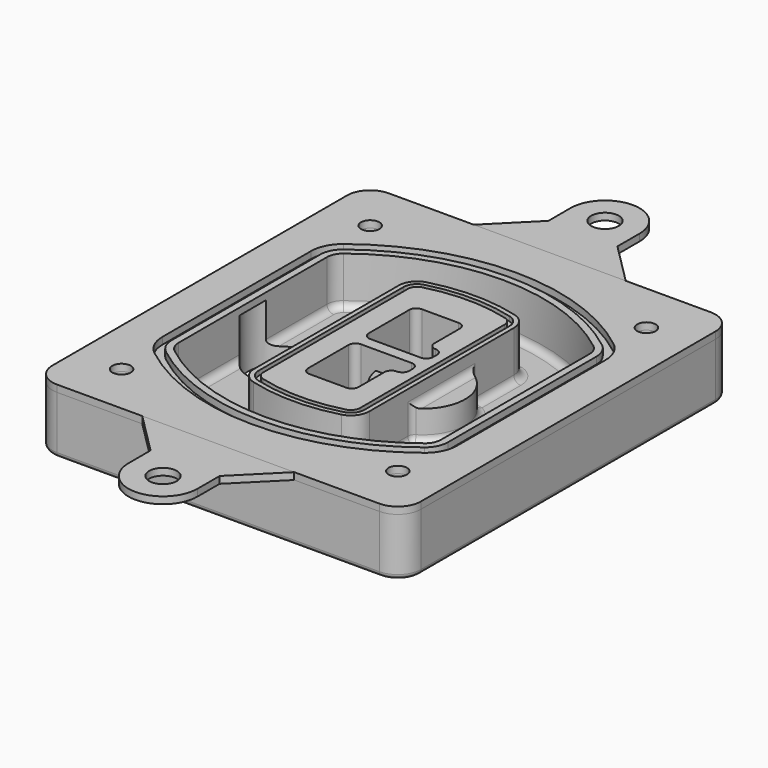
from build123d import *

# Parameters (mm, degrees)
F0_R      = 4
F1_DEPTH  = 25
F2_DEPTH  = 3
F3_DEPTH  = 18
F5_DEPTH  = 21
F6_DEPTH  = 2
F8_DEPTH  = 20
F9_DEPTH  = 16
F10_DEPTH = 25
F7_R      = 6
F7_R_2    = 4
F11_DEPTH = 6
F13_DEPTH = 9
F14_R     = 3
F15_R     = 2
F16_R     = 6
F17_DEPTH = 3
F18_DEPTH = 3


with BuildPart() as f1:
    # F0 (on Top) → F1 (new body)
    with BuildSketch(Plane.XY):
        with BuildLine():
            ThreePointArc((-80, -80), (-77.0710678119, -87.0710678119), (-70, -90))
            Line((-70, -90), (70, -90))
            ThreePointArc((70, -90), (77.0710678119, -87.0710678119), (80, -80))
            Line((80, -80), (80, 80))
            ThreePointArc((80, 80), (77.0710678119, 87.0710678119), (70, 90))
            Line((70, 90), (-70, 90))
            ThreePointArc((-70, 90), (-77.0710678119, 87.0710678119), (-80, 80))
            Line((-80, 80), (-80, -80))
        make_face()
        with Locations((-60, -67.5)):
            Circle(F0_R, mode=Mode.SUBTRACT)
        with Locations((60, -67.5)):
            Circle(F0_R, mode=Mode.SUBTRACT)
        with Locations((-60, 67.5)):
            Circle(F0_R, mode=Mode.SUBTRACT)
        with BuildLine():
            ThreePointArc((-64, 40.2934422872), (-62.5820384798, 46.4328484224), (-58.6153846154, 51.3286200352))
            ThreePointArc((-58.6153846154, 51.3286200352), (0, 71.5), (58.6153846154, 51.3286200352))
            ThreePointArc((58.6153846154, 51.3286200352), (62.5820384798, 46.4328484224), (64, 40.2934422872))
            Line((64, 40.2934422872), (64, -40.2934422872))
            ThreePointArc((64, -40.2934422872), (62.5820384798, -46.4328484224), (58.6153846154, -51.3286200352))
            ThreePointArc((58.6153846154, -51.3286200352), (0, -71.5), (-58.6153846154, -51.3286200352))
            ThreePointArc((-58.6153846154, -51.3286200352), (-62.5820384798, -46.4328484224), (-64, -40.2934422872))
            Line((-64, -40.2934422872), (-64, 40.2934422872))
        make_face(mode=Mode.SUBTRACT)
        with Locations((60, 67.5)):
            Circle(F0_R, mode=Mode.SUBTRACT)
        with BuildLine():
            ThreePointArc((58.6153846154, 51.3286200352), (0, 71.5), (-58.6153846154, 51.3286200352))
            ThreePointArc((-58.6153846154, 51.3286200352), (-62.5820384798, 46.4328484224), (-64, 40.2934422872))
            Line((-64, 40.2934422872), (-64, -40.2934422872))
            ThreePointArc((-64, -40.2934422872), (-62.5820384798, -46.4328484224), (-58.6153846154, -51.3286200352))
            ThreePointArc((-58.6153846154, -51.3286200352), (0, -71.5), (58.6153846154, -51.3286200352))
            ThreePointArc((58.6153846154, -51.3286200352), (62.5820384798, -46.4328484224), (64, -40.2934422872))
            Line((64, -40.2934422872), (64, 40.2934422872))
            ThreePointArc((64, 40.2934422872), (62.5820384798, 46.4328484224), (58.6153846154, 51.3286200352))
        make_face()
        with BuildLine():
            Line((-60, -40.2934422872), (-60, 40.2934422872))
            ThreePointArc((-60, 40.2934422872), (-58.9871703427, 44.6787323838), (-56.1538461538, 48.1757121072))
            ThreePointArc((-56.1538461538, 48.1757121072), (0, 67.5), (56.1538461538, 48.1757121072))
            ThreePointArc((56.1538461538, 48.1757121072), (58.9871703427, 44.6787323838), (60, 40.2934422872))
            Line((60, 40.2934422872), (60, -40.2934422872))
            ThreePointArc((60, -40.2934422872), (58.9871703427, -44.6787323838), (56.1538461538, -48.1757121072))
            ThreePointArc((56.1538461538, -48.1757121072), (0, -67.5), (-56.1538461538, -48.1757121072))
            ThreePointArc((-56.1538461538, -48.1757121072), (-58.9871703427, -44.6787323838), (-60, -40.2934422872))
        make_face(mode=Mode.SUBTRACT)
        with BuildLine():
            ThreePointArc((-56.1538461538, 48.1757121072), (-58.9871703427, 44.6787323838), (-60, 40.2934422872))
            Line((-60, 40.2934422872), (-60, -40.2934422872))
            ThreePointArc((-60, -40.2934422872), (-58.9871703427, -44.6787323838), (-56.1538461538, -48.1757121072))
            ThreePointArc((-56.1538461538, -48.1757121072), (0, -67.5), (56.1538461538, -48.1757121072))
            ThreePointArc((56.1538461538, -48.1757121072), (58.9871703427, -44.6787323838), (60, -40.2934422872))
            Line((60, -40.2934422872), (60, 40.2934422872))
            ThreePointArc((60, 40.2934422872), (58.9871703427, 44.6787323838), (56.1538461538, 48.1757121072))
            ThreePointArc((56.1538461538, 48.1757121072), (0, 67.5), (-56.1538461538, 48.1757121072))
        make_face()
        with BuildLine():
            ThreePointArc((54.3076923077, 45.8110311612), (56.2910192399, 43.3631453548), (57, 40.2934422872))
            Line((57, 40.2934422872), (57, -40.2934422872))
            ThreePointArc((57, -40.2934422872), (56.2910192399, -43.3631453548), (54.3076923077, -45.8110311612))
            ThreePointArc((54.3076923077, -45.8110311612), (0, -64.5), (-54.3076923077, -45.8110311612))
            ThreePointArc((-54.3076923077, -45.8110311612), (-56.2910192399, -43.3631453548), (-57, -40.2934422872))
            Line((-57, -40.2934422872), (-57, 40.2934422872))
            ThreePointArc((-57, 40.2934422872), (-56.2910192399, 43.3631453548), (-54.3076923077, 45.8110311612))
            ThreePointArc((-54.3076923077, 45.8110311612), (0, 64.5), (54.3076923077, 45.8110311612))
        make_face(mode=Mode.SUBTRACT)
        with BuildLine():
            Line((57, -40.2934422872), (57, 40.2934422872))
            ThreePointArc((57, 40.2934422872), (56.2910192399, 43.3631453548), (54.3076923077, 45.8110311612))
            ThreePointArc((54.3076923077, 45.8110311612), (0, 64.5), (-54.3076923077, 45.8110311612))
            ThreePointArc((-54.3076923077, 45.8110311612), (-56.2910192399, 43.3631453548), (-57, 40.2934422872))
            Line((-57, 40.2934422872), (-57, -40.2934422872))
            ThreePointArc((-57, -40.2934422872), (-56.2910192399, -43.3631453548), (-54.3076923077, -45.8110311612))
            ThreePointArc((-54.3076923077, -45.8110311612), (0, -64.5), (54.3076923077, -45.8110311612))
            ThreePointArc((54.3076923077, -45.8110311612), (56.2910192399, -43.3631453548), (57, -40.2934422872))
        make_face()
    extrude(amount=-F1_DEPTH)

    # F0 (on Top) → F2 (join)
    with BuildSketch(Plane.XY):
        with BuildLine():
            ThreePointArc((-56.1538461538, 48.1757121072), (-58.9871703427, 44.6787323838), (-60, 40.2934422872))
            Line((-60, 40.2934422872), (-60, -40.2934422872))
            ThreePointArc((-60, -40.2934422872), (-58.9871703427, -44.6787323838), (-56.1538461538, -48.1757121072))
            ThreePointArc((-56.1538461538, -48.1757121072), (0, -67.5), (56.1538461538, -48.1757121072))
            ThreePointArc((56.1538461538, -48.1757121072), (58.9871703427, -44.6787323838), (60, -40.2934422872))
            Line((60, -40.2934422872), (60, 40.2934422872))
            ThreePointArc((60, 40.2934422872), (58.9871703427, 44.6787323838), (56.1538461538, 48.1757121072))
            ThreePointArc((56.1538461538, 48.1757121072), (0, 67.5), (-56.1538461538, 48.1757121072))
        make_face()
        with BuildLine():
            ThreePointArc((54.3076923077, 45.8110311612), (56.2910192399, 43.3631453548), (57, 40.2934422872))
            Line((57, 40.2934422872), (57, -40.2934422872))
            ThreePointArc((57, -40.2934422872), (56.2910192399, -43.3631453548), (54.3076923077, -45.8110311612))
            ThreePointArc((54.3076923077, -45.8110311612), (0, -64.5), (-54.3076923077, -45.8110311612))
            ThreePointArc((-54.3076923077, -45.8110311612), (-56.2910192399, -43.3631453548), (-57, -40.2934422872))
            Line((-57, -40.2934422872), (-57, 40.2934422872))
            ThreePointArc((-57, 40.2934422872), (-56.2910192399, 43.3631453548), (-54.3076923077, 45.8110311612))
            ThreePointArc((-54.3076923077, 45.8110311612), (0, 64.5), (54.3076923077, 45.8110311612))
        make_face(mode=Mode.SUBTRACT)
    extrude(amount=F2_DEPTH)

    # F0 (on Top) → F3 (cut)
    with BuildSketch(Plane.XY):
        with BuildLine():
            Line((57, -40.2934422872), (57, 40.2934422872))
            ThreePointArc((57, 40.2934422872), (56.2910192399, 43.3631453548), (54.3076923077, 45.8110311612))
            ThreePointArc((54.3076923077, 45.8110311612), (0, 64.5), (-54.3076923077, 45.8110311612))
            ThreePointArc((-54.3076923077, 45.8110311612), (-56.2910192399, 43.3631453548), (-57, 40.2934422872))
            Line((-57, 40.2934422872), (-57, -40.2934422872))
            ThreePointArc((-57, -40.2934422872), (-56.2910192399, -43.3631453548), (-54.3076923077, -45.8110311612))
            ThreePointArc((-54.3076923077, -45.8110311612), (0, -64.5), (54.3076923077, -45.8110311612))
            ThreePointArc((54.3076923077, -45.8110311612), (56.2910192399, -43.3631453548), (57, -40.2934422872))
        make_face()
    extrude(amount=-F3_DEPTH, mode=Mode.SUBTRACT)

    # F4 (on face) → F5 (join, through all)
    with BuildSketch(Plane.XY.offset(3)):
        with BuildLine():
            ThreePointArc((-25, -39.2465276821), (-23.3511545998, -44.1109737193), (-19.0842911877, -46.9702398883))
            ThreePointArc((-19.0842911877, -46.9702398883), (0, -49.5), (19.0842911877, -46.9702398883))
            ThreePointArc((19.0842911877, -46.9702398883), (23.3511545998, -44.1109737193), (25, -39.2465276821))
            Line((25, -39.2465276821), (25, 39.2465276821))
            ThreePointArc((25, 39.2465276821), (23.3511545998, 44.1109737193), (19.0842911877, 46.9702398883))
            ThreePointArc((19.0842911877, 46.9702398883), (0, 49.5), (-19.0842911877, 46.9702398883))
            ThreePointArc((-19.0842911877, 46.9702398883), (-23.3511545998, 44.1109737193), (-25, 39.2465276821))
            Line((-25, 39.2465276821), (-25, -39.2465276821))
        make_face()
        with BuildLine():
            ThreePointArc((18.5632183908, 45.0393118368), (21.7633659499, 42.89486221), (23, 39.2465276821))
            Line((23, 39.2465276821), (23, -39.2465276821))
            ThreePointArc((23, -39.2465276821), (21.7633659499, -42.89486221), (18.5632183908, -45.0393118368))
            ThreePointArc((18.5632183908, -45.0393118368), (0, -47.5), (-18.5632183908, -45.0393118368))
            ThreePointArc((-18.5632183908, -45.0393118368), (-21.7633659499, -42.89486221), (-23, -39.2465276821))
            Line((-23, -39.2465276821), (-23, 39.2465276821))
            ThreePointArc((-23, 39.2465276821), (-21.7633659499, 42.89486221), (-18.5632183908, 45.0393118368))
            ThreePointArc((-18.5632183908, 45.0393118368), (0, 47.5), (18.5632183908, 45.0393118368))
        make_face(mode=Mode.SUBTRACT)
        with BuildLine():
            Line((23, -39.2465276821), (23, 39.2465276821))
            ThreePointArc((23, 39.2465276821), (21.7633659499, 42.89486221), (18.5632183908, 45.0393118368))
            ThreePointArc((18.5632183908, 45.0393118368), (0, 47.5), (-18.5632183908, 45.0393118368))
            ThreePointArc((-18.5632183908, 45.0393118368), (-21.7633659499, 42.89486221), (-23, 39.2465276821))
            Line((-23, 39.2465276821), (-23, -39.2465276821))
            ThreePointArc((-23, -39.2465276821), (-21.7633659499, -42.89486221), (-18.5632183908, -45.0393118368))
            ThreePointArc((-18.5632183908, -45.0393118368), (0, -47.5), (18.5632183908, -45.0393118368))
            ThreePointArc((18.5632183908, -45.0393118368), (21.7633659499, -42.89486221), (23, -39.2465276821))
        make_face()
        with BuildLine():
            ThreePointArc((18.0421455939, 43.1083837852), (20.1755772999, 41.6787507007), (21, 39.2465276821))
            Line((21, 39.2465276821), (21, -39.2465276821))
            ThreePointArc((21, -39.2465276821), (20.1755772999, -41.6787507007), (18.0421455939, -43.1083837852))
            ThreePointArc((18.0421455939, -43.1083837852), (0, -45.5), (-18.0421455939, -43.1083837852))
            ThreePointArc((-18.0421455939, -43.1083837852), (-20.1755772999, -41.6787507007), (-21, -39.2465276821))
            Line((-21, -39.2465276821), (-21, 39.2465276821))
            ThreePointArc((-21, 39.2465276821), (-20.1755772999, 41.6787507007), (-18.0421455939, 43.1083837852))
            ThreePointArc((-18.0421455939, 43.1083837852), (0, 45.5), (18.0421455939, 43.1083837852))
        make_face(mode=Mode.SUBTRACT)
        with BuildLine():
            Line((21, -39.2465276821), (21, 39.2465276821))
            ThreePointArc((21, 39.2465276821), (20.1755772999, 41.6787507007), (18.0421455939, 43.1083837852))
            ThreePointArc((18.0421455939, 43.1083837852), (0, 45.5), (-18.0421455939, 43.1083837852))
            ThreePointArc((-18.0421455939, 43.1083837852), (-20.1755772999, 41.6787507007), (-21, 39.2465276821))
            Line((-21, 39.2465276821), (-21, -39.2465276821))
            ThreePointArc((-21, -39.2465276821), (-20.1755772999, -41.6787507007), (-18.0421455939, -43.1083837852))
            ThreePointArc((-18.0421455939, -43.1083837852), (0, -45.5), (18.0421455939, -43.1083837852))
            ThreePointArc((18.0421455939, -43.1083837852), (20.1755772999, -41.6787507007), (21, -39.2465276821))
        make_face()
        with BuildLine():
            Line((-8, -2.5), (14, -2.5))
            ThreePointArc((14, -2.5), (16.1213203436, -3.3786796564), (17, -5.5))
            Line((17, -5.5), (17, -7.5))
            ThreePointArc((17, -7.5), (16.1213203436, -9.6213203436), (14, -10.5))
            ThreePointArc((14, -10.5), (11.8786796564, -11.3786796564), (11, -13.5))
            Line((11, -13.5), (11, -27.5))
            ThreePointArc((11, -27.5), (10.1213203436, -29.6213203436), (8, -30.5))
            Line((8, -30.5), (-8, -30.5))
            ThreePointArc((-8, -30.5), (-10.1213203436, -29.6213203436), (-11, -27.5))
            Line((-11, -27.5), (-11, -5.5))
            ThreePointArc((-11, -5.5), (-10.1213203436, -3.3786796564), (-8, -2.5))
        make_face(mode=Mode.SUBTRACT)
        with BuildLine():
            ThreePointArc((-8, 2.5), (-10.1213203436, 3.3786796564), (-11, 5.5))
            Line((-11, 5.5), (-11, 27.5))
            ThreePointArc((-11, 27.5), (-10.1213203436, 29.6213203436), (-8, 30.5))
            Line((-8, 30.5), (8, 30.5))
            ThreePointArc((8, 30.5), (10.1213203436, 29.6213203436), (11, 27.5))
            Line((11, 27.5), (11, 13.5))
            ThreePointArc((11, 13.5), (11.8786796564, 11.3786796564), (14, 10.5))
            ThreePointArc((14, 10.5), (16.1213203436, 9.6213203436), (17, 7.5))
            Line((17, 7.5), (17, 5.5))
            ThreePointArc((17, 5.5), (16.1213203436, 3.3786796564), (14, 2.5))
            Line((14, 2.5), (-8, 2.5))
        make_face(mode=Mode.SUBTRACT)
    extrude(amount=-F5_DEPTH)

    # F4 (on face) → F6 (cut)
    with BuildSketch(Plane.XY.offset(3)):
        with BuildLine():
            Line((23, -39.2465276821), (23, 39.2465276821))
            ThreePointArc((23, 39.2465276821), (21.7633659499, 42.89486221), (18.5632183908, 45.0393118368))
            ThreePointArc((18.5632183908, 45.0393118368), (0, 47.5), (-18.5632183908, 45.0393118368))
            ThreePointArc((-18.5632183908, 45.0393118368), (-21.7633659499, 42.89486221), (-23, 39.2465276821))
            Line((-23, 39.2465276821), (-23, -39.2465276821))
            ThreePointArc((-23, -39.2465276821), (-21.7633659499, -42.89486221), (-18.5632183908, -45.0393118368))
            ThreePointArc((-18.5632183908, -45.0393118368), (0, -47.5), (18.5632183908, -45.0393118368))
            ThreePointArc((18.5632183908, -45.0393118368), (21.7633659499, -42.89486221), (23, -39.2465276821))
        make_face()
        with BuildLine():
            ThreePointArc((18.0421455939, 43.1083837852), (20.1755772999, 41.6787507007), (21, 39.2465276821))
            Line((21, 39.2465276821), (21, -39.2465276821))
            ThreePointArc((21, -39.2465276821), (20.1755772999, -41.6787507007), (18.0421455939, -43.1083837852))
            ThreePointArc((18.0421455939, -43.1083837852), (0, -45.5), (-18.0421455939, -43.1083837852))
            ThreePointArc((-18.0421455939, -43.1083837852), (-20.1755772999, -41.6787507007), (-21, -39.2465276821))
            Line((-21, -39.2465276821), (-21, 39.2465276821))
            ThreePointArc((-21, 39.2465276821), (-20.1755772999, 41.6787507007), (-18.0421455939, 43.1083837852))
            ThreePointArc((-18.0421455939, 43.1083837852), (0, 45.5), (18.0421455939, 43.1083837852))
        make_face(mode=Mode.SUBTRACT)
    extrude(amount=-F6_DEPTH, mode=Mode.SUBTRACT)

    # F7 (on face) → F8 (join)
    with BuildSketch(Plane(origin=(0, 0, -25), x_dir=(1, 0, 0), z_dir=(0, 0, -1))):
        with BuildLine():
            ThreePointArc((3.28842436, 0), (16.7567035675, 13.4682792075), (30.224982775, 0))
            Line((30.224982775, 0), (35.224982775, 0))
            ThreePointArc((35.224982775, 0), (16.7567035675, 18.4682792075), (-1.71157564, 0))
            Line((-1.71157564, 0), (3.28842436, 0))
        make_face()
        with BuildLine():
            Line((3.28842436, 0), (30.224982775, 0))
            ThreePointArc((30.224982775, 0), (16.7567035675, 13.4682792075), (3.28842436, 0))
        make_face()
        with BuildLine():
            ThreePointArc((3.28842436, 0), (16.7567035675, -13.4682792075), (30.224982775, 0))
            Line((30.224982775, 0), (3.28842436, 0))
        make_face()
        with BuildLine():
            Line((35.224982775, 0), (30.224982775, 0))
            ThreePointArc((30.224982775, 0), (16.7567035675, -13.4682792075), (3.28842436, 0))
            Line((3.28842436, 0), (-1.71157564, 0))
            ThreePointArc((-1.71157564, 0), (16.7567035675, -18.4682792075), (35.224982775, 0))
        make_face()
    extrude(amount=-F8_DEPTH)

    # F7 (on face) → F9 (cut)
    with BuildSketch(Plane(origin=(0, 0, -25), x_dir=(1, 0, 0), z_dir=(0, 0, -1))):
        with BuildLine():
            Line((3.28842436, 0), (30.224982775, 0))
            ThreePointArc((30.224982775, 0), (16.7567035675, 13.4682792075), (3.28842436, 0))
        make_face()
        with BuildLine():
            ThreePointArc((3.28842436, 0), (16.7567035675, -13.4682792075), (30.224982775, 0))
            Line((30.224982775, 0), (3.28842436, 0))
        make_face()
    extrude(amount=-F9_DEPTH, mode=Mode.SUBTRACT)

    # F7 (on face) → F10 (cut)
    with BuildSketch(Plane(origin=(0, 0, -25), x_dir=(1, 0, 0), z_dir=(0, 0, -1))):
        with BuildLine():
            Line((-59.0318229325, 0), (-32.0952645175, 0))
            ThreePointArc((-32.0952645175, 0), (-45.563543725, 13.4682792075), (-59.0318229325, 0))
        make_face()
        with BuildLine():
            ThreePointArc((-59.0318229325, 0), (-45.563543725, -13.4682792075), (-32.0952645175, 0))
            Line((-32.0952645175, 0), (-59.0318229325, 0))
        make_face()
    extrude(amount=-F10_DEPTH, mode=Mode.SUBTRACT)

    # F7 (on face) → F11 (cut)
    with BuildSketch(Plane(origin=(0, 0, -25), x_dir=(1, 0, 0), z_dir=(0, 0, -1))):
        with Locations((60, -67.5)):
            Circle(F7_R)
        with Locations((60, -67.5)):
            Circle(F7_R_2, mode=Mode.SUBTRACT)
        with Locations((60, -67.5)):
            Circle(F7_R)
        with Locations((60, -67.5)):
            Circle(F7_R_2, mode=Mode.SUBTRACT)
        with Locations((-60, -67.5)):
            Circle(F7_R)
        with Locations((-60, -67.5)):
            Circle(F7_R_2, mode=Mode.SUBTRACT)
        with Locations((-60, -67.5)):
            Circle(F7_R)
        with Locations((-60, -67.5)):
            Circle(F7_R_2, mode=Mode.SUBTRACT)
        with Locations((-60, 67.5)):
            Circle(F7_R)
        with Locations((-60, 67.5)):
            Circle(F7_R_2, mode=Mode.SUBTRACT)
        with Locations((-60, 67.5)):
            Circle(F7_R)
        with Locations((-60, 67.5)):
            Circle(F7_R_2, mode=Mode.SUBTRACT)
        with Locations((60, 67.5)):
            Circle(F7_R)
        with Locations((60, 67.5)):
            Circle(F7_R_2, mode=Mode.SUBTRACT)
        with Locations((60, 67.5)):
            Circle(F7_R)
        with Locations((60, 67.5)):
            Circle(F7_R_2, mode=Mode.SUBTRACT)
    extrude(amount=-F11_DEPTH, mode=Mode.SUBTRACT)

    # F12 (on face) → F13 (cut, through all)
    with BuildSketch(Plane(origin=(0, 0, -9), x_dir=(1, 0, 0), z_dir=(0, 0, -1))):
        with BuildLine():
            Line((11, 13.5), (11, 17.5481537753))
            ThreePointArc((11, 17.5481537753), (2.5696536419, 11.8239143813), (-1.5415842455, 2.5))
            Line((-1.5415842455, 2.5), (3.5224848595, 2.5))
            ThreePointArc((3.5224848595, 2.5), (6.1857188154, 8.3455872281), (11.2536447004, 12.2927168648))
            ThreePointArc((11.2536447004, 12.2927168648), (11.0640958889, 12.8831798879), (11, 13.5))
        make_face()
        with BuildLine():
            ThreePointArc((11.2536447004, -12.2927168648), (6.1857188154, -8.3455872281), (3.5224848595, -2.5))
            Line((3.5224848595, -2.5), (-1.5415842455, -2.5))
            ThreePointArc((-1.5415842455, -2.5), (2.5696536419, -11.8239143813), (11, -17.5481537753))
            Line((11, -17.5481537753), (11, -13.5))
            ThreePointArc((11, -13.5), (11.0640958889, -12.8831798879), (11.2536447004, -12.2927168648))
        make_face()
        with BuildLine():
            ThreePointArc((11.2536447004, 12.2927168648), (6.1857188154, 8.3455872281), (3.5224848595, 2.5))
            Line((3.5224848595, 2.5), (14, 2.5))
            ThreePointArc((14, 2.5), (16.1213203436, 3.3786796564), (17, 5.5))
            Line((17, 5.5), (17, 7.5))
            ThreePointArc((17, 7.5), (16.1213203436, 9.6213203436), (14, 10.5))
            ThreePointArc((14, 10.5), (12.3601599782, 10.9878446101), (11.2536447004, 12.2927168648))
        make_face()
        with BuildLine():
            Line((14, -2.5), (3.5224848595, -2.5))
            ThreePointArc((3.5224848595, -2.5), (6.1857188154, -8.3455872281), (11.2536447004, -12.2927168648))
            ThreePointArc((11.2536447004, -12.2927168648), (12.3601599782, -10.9878446101), (14, -10.5))
            ThreePointArc((14, -10.5), (16.1213203436, -9.6213203436), (17, -7.5))
            Line((17, -7.5), (17, -5.5))
            ThreePointArc((17, -5.5), (16.1213203436, -3.3786796564), (14, -2.5))
        make_face()
    extrude(amount=F13_DEPTH, mode=Mode.SUBTRACT)

    # F14
    f14_edges = [f1.edges().sort_by_distance(p)[0] for p in [
        (-57, -23.703476, -18),
        (-57, 23.703476, -18),
        (25, 0, -5),
        (25, 16.526506, -11.5),
        (25, -16.526506, -11.5),
        (25, -27.886517, -18),
        (35.224983, 0, -18),
    ]]
    fillet(f14_edges, radius=F14_R)

    # F15
    f15_edges = [f1.edges().sort_by_distance(p)[0] for p in [
        (0, -90, -25),
    ]]
    fillet(f15_edges, radius=F15_R)


with BuildPart() as f17:
    # F16 (on face) → F17 (new body, through all)
    with BuildSketch(Plane.XY):
        with BuildLine():
            Line((15, 108), (15, 120))
            ThreePointArc((15, 120), (0, 135), (-15, 120))
            Line((-15, 120), (-15, 108))
            Line((-15, 108), (-33, 90))
            Line((-33, 90), (33, 90))
            Line((33, 90), (15, 108))
        make_face()
        with Locations((0, 120)):
            Circle(F16_R, mode=Mode.SUBTRACT)
    extrude(amount=F17_DEPTH)


with BuildPart() as f17b:
    # F16 (on face) → F17, piece 2 (new body, through all)
    with BuildSketch(Plane.XY):
        with BuildLine():
            Line((15, -108), (33, -90))
            Line((33, -90), (-33, -90))
            Line((-33, -90), (-15, -108))
            Line((-15, -108), (-15, -120))
            ThreePointArc((-15, -120), (0, -135), (15, -120))
            Line((15, -120), (15, -108))
        make_face()
        with Locations((0, -120)):
            Circle(F16_R, mode=Mode.SUBTRACT)
    extrude(amount=F17_DEPTH)


with BuildPart() as f18:
    # F0 (on Top) → F18 (new body, through all)
    with BuildSketch(Plane.XY):
        with BuildLine():
            ThreePointArc((-80, -80), (-77.0710678119, -87.0710678119), (-70, -90))
            Line((-70, -90), (70, -90))
            ThreePointArc((70, -90), (77.0710678119, -87.0710678119), (80, -80))
            Line((80, -80), (80, 80))
            ThreePointArc((80, 80), (77.0710678119, 87.0710678119), (70, 90))
            Line((70, 90), (-70, 90))
            ThreePointArc((-70, 90), (-77.0710678119, 87.0710678119), (-80, 80))
            Line((-80, 80), (-80, -80))
        make_face()
        with Locations((-60, -67.5)):
            Circle(F0_R, mode=Mode.SUBTRACT)
        with Locations((60, -67.5)):
            Circle(F0_R, mode=Mode.SUBTRACT)
        with Locations((-60, 67.5)):
            Circle(F0_R, mode=Mode.SUBTRACT)
        with BuildLine():
            ThreePointArc((-64, 40.2934422872), (-62.5820384798, 46.4328484224), (-58.6153846154, 51.3286200352))
            ThreePointArc((-58.6153846154, 51.3286200352), (0, 71.5), (58.6153846154, 51.3286200352))
            ThreePointArc((58.6153846154, 51.3286200352), (62.5820384798, 46.4328484224), (64, 40.2934422872))
            Line((64, 40.2934422872), (64, -40.2934422872))
            ThreePointArc((64, -40.2934422872), (62.5820384798, -46.4328484224), (58.6153846154, -51.3286200352))
            ThreePointArc((58.6153846154, -51.3286200352), (0, -71.5), (-58.6153846154, -51.3286200352))
            ThreePointArc((-58.6153846154, -51.3286200352), (-62.5820384798, -46.4328484224), (-64, -40.2934422872))
            Line((-64, -40.2934422872), (-64, 40.2934422872))
        make_face(mode=Mode.SUBTRACT)
        with Locations((60, 67.5)):
            Circle(F0_R, mode=Mode.SUBTRACT)
    extrude(amount=F18_DEPTH)


solid = Compound([f1.part, f17.part, f17b.part, f18.part])
